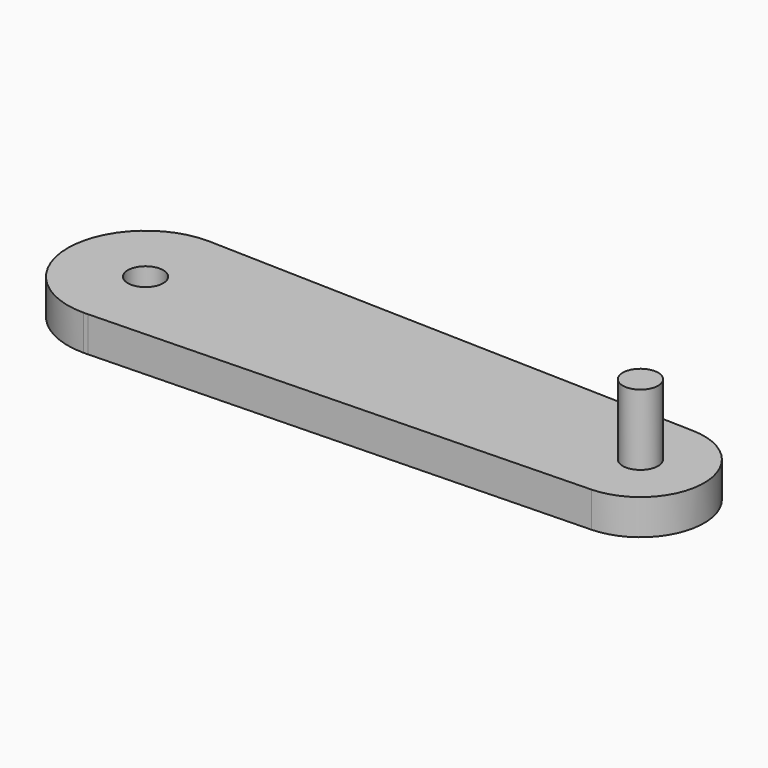
from build123d import *

# Parameters (mm, degrees)
F1_DEPTH = 25
F2_R     = 12.5
F3_DEPTH = 25.001
F4_R     = 12.5
F5_DEPTH = 50


with BuildPart() as f1:
    # F0 (on Top) → F1 (new body)
    with BuildSketch(Plane.XY):
        with BuildLine():
            Line((351.28284, 44.981711), (3.134557, 54.910605))
            Line((3.134557, 54.910605), (0, 55))
            ThreePointArc((0, 55), (-55, 0), (0, -55))
            Line((0, -55), (3.134557, -54.910605))
            Line((3.134557, -54.910605), (351.28284, -44.981711))
            ThreePointArc((351.28284, -44.981711), (395, 0), (351.28284, 44.981711))
        make_face()
    extrude(amount=F1_DEPTH)

    # F2 (on face) → F3 (cut, through all)
    with BuildSketch(Plane.XY.offset(25)):
        Circle(F2_R)
    extrude(amount=-F3_DEPTH, mode=Mode.SUBTRACT)

    # F4 (on face) → F5 (join)
    with BuildSketch(Plane.XY.offset(25)):
        with Locations((350, 0)):
            Circle(F4_R)
    extrude(amount=F5_DEPTH)


solid = f1.part
